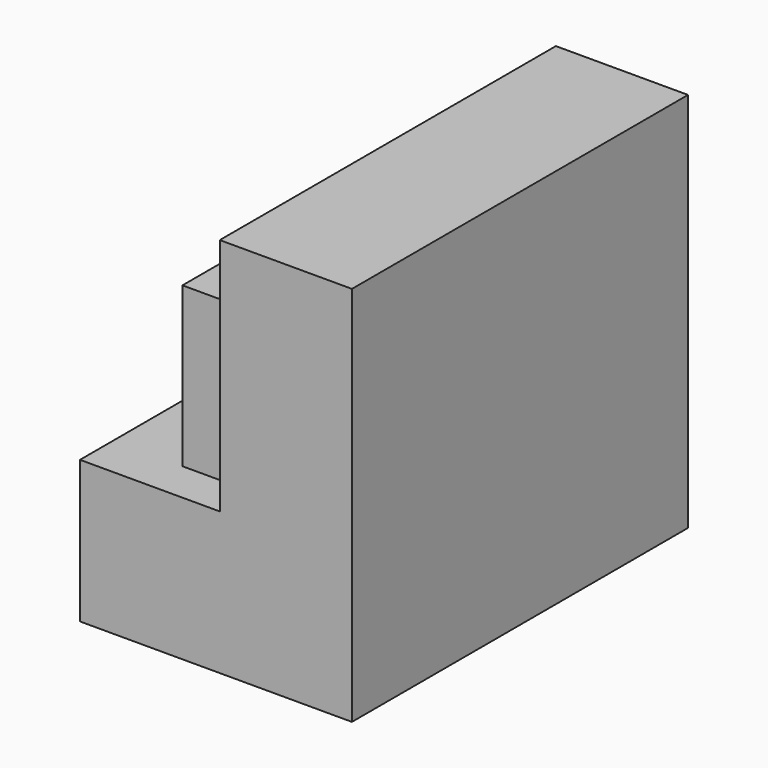
from build123d import *

# Parameters (mm, degrees)
F1_DEPTH = 75.692
F3_DEPTH = 51.2859017978
F4_W     = 22.5897803903
F4_H     = 57.3902577162
F5_DEPTH = 25.4


with BuildPart() as f1:
    # F0 (on Front) → F1 (new body, symmetric)
    with BuildSketch(Plane.XZ):
        Polygon((-23.8108504564, -68.685144186), (23.8108504564, -68.685144186), (23.8108504564, -17.4002423882), (23.8108504564, 68.685144186), (-23.8108504564, 68.685144186), (-23.8108504564, -17.4002423882), (-74.1799622774, -17.4002423882), (-74.1799622774, -68.685144186), align=None)
    extrude(amount=F1_DEPTH, both=True)

    # F2 (on face) → F3 (cut, through all)
    with BuildSketch(Plane.XY.offset(-17.4002423882)):
        with BuildLine():
            ThreePointArc((-53.8599622774, -10.16), (-46.6757573806, -7.1842048969), (-43.6999622774, 0))
            ThreePointArc((-43.6999622774, 0), (-46.6757573806, 7.1842048969), (-53.8599622774, 10.16))
            ThreePointArc((-53.8599622774, 10.16), (-64.0199622774, 0), (-53.8599622774, -10.16))
        make_face()
        with BuildLine():
            ThreePointArc((-53.8599622774, -10.16), (-64.0199622774, 0), (-53.8599622774, 10.16))
            Line((-53.8599622774, 10.16), (-74.1799622774, 10.16))
            Line((-74.1799622774, 10.16), (-74.1799622774, -10.16))
            Line((-74.1799622774, -10.16), (-53.8599622774, -10.16))
        make_face()
    extrude(amount=-F3_DEPTH, mode=Mode.SUBTRACT)

    # F4 (on face) → F5 (join)
    with BuildSketch(Plane(origin=(-23.8108504564, 0, 0), x_dir=(0, -1, 0), z_dir=(-1, 0, 0))):
        with Locations((49.4533069432, 11.2948864698)):
            Rectangle(F4_W, F4_H)
    extrude(amount=F5_DEPTH)


solid = f1.part
